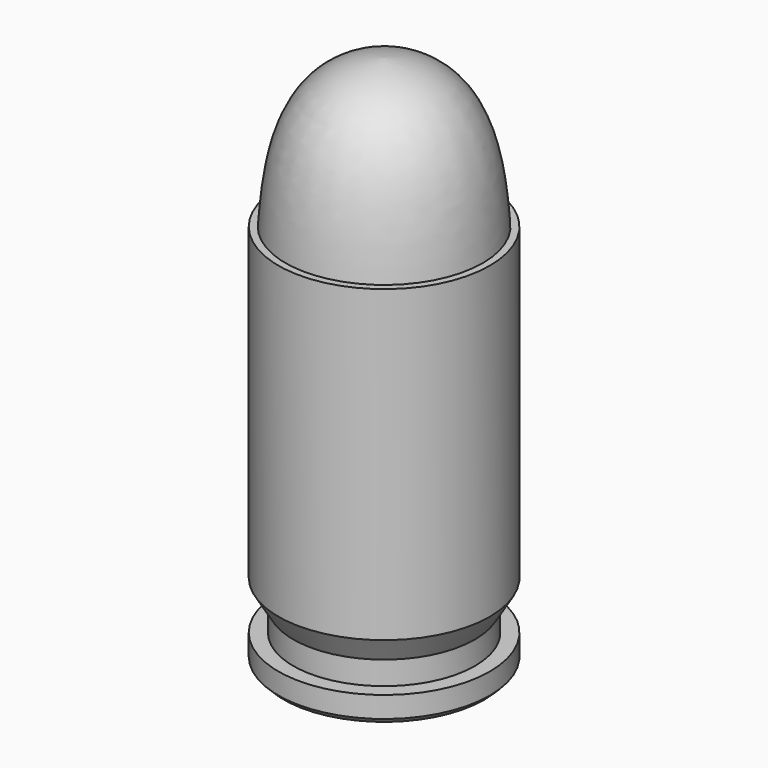
from build123d import *

# Parameters (mm, degrees)
F0_W    = 4.2545
F0_H    = 1.0922
F2_SIZE = 0.254


with BuildPart() as f1:
    # F0 (on Front) → F1 (revolve)
    with BuildSketch(Plane.XZ):
        with BuildLine():
            Line((0, 14.1986), (0, 7.239))
            Line((0, 7.239), (4.6228, 7.239))
            add(Edge.make_bspline(
                [(0, 14.1986), (3.952446, 13.911695), (4.413521, 10.257011), (4.6228, 7.239)],
                knots=[0, 0, 0, 0, 8.355017, 8.355017, 8.355017, 8.355017], degree=3))
        make_face()
        Polygon((0, -7.239), (4.953, -7.239), (4.953, 7.239), (4.6228, 7.239), (0, 7.239), align=None)
        Polygon((4.2545, -8.4074), (4.953, -7.239), (0, -7.239), (0, -8.4074), align=None)
        with Locations((2.12725, -8.9535)):
            Rectangle(F0_W, F0_H)
        Polygon((4.953, -9.4996), (4.2545, -9.4996), (0, -9.4996), (0, -10.7442), (4.953, -10.7442), align=None)
    revolve(axis=Axis((0, 0, 0), (0, 0, -1)))

    # F2
    f2_edges = [f1.edges().sort_by_distance(p)[0] for p in [
        (-4.953, 0, -10.7442),
    ]]
    chamfer(f2_edges, length=F2_SIZE)


solid = f1.part
